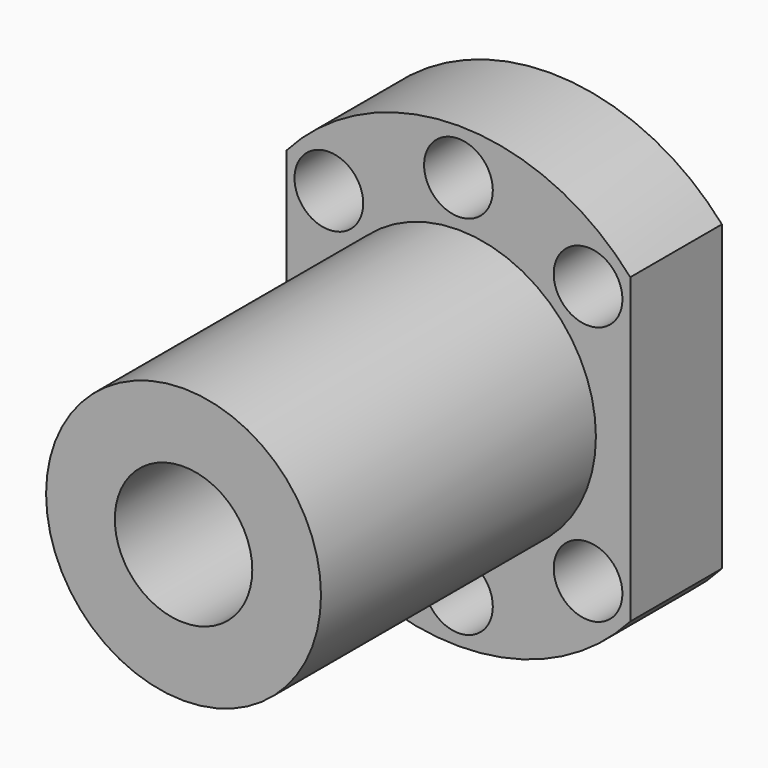
from build123d import *

# Parameters (mm, degrees)
F0_R     = 20
F1_DEPTH = 10
F2_R     = 12
F3_DEPTH = 30
F4_R     = 6
F5_DEPTH = 40.001
F7_DEPTH = 25
F9_D     = 6


with BuildPart() as f1:
    # F0 (on Front) → F1 (new body)
    with BuildSketch(Plane.XZ):
        Circle(F0_R)
    extrude(amount=F1_DEPTH)

    # F2 (on face) → F3 (join)
    with BuildSketch(Plane.XZ.offset(10)):
        Circle(F2_R)
    extrude(amount=F3_DEPTH)

    # F4 (on face) → F5 (cut, through all)
    with BuildSketch(Plane.XZ.offset(40)):
        Circle(F4_R)
    extrude(amount=-F5_DEPTH, mode=Mode.SUBTRACT)

    # F6 (on face) → F7 (cut)
    with BuildSketch(Plane(origin=(0, 0, 0), x_dir=(-1, 0, 0), z_dir=(0, 1, 0))):
        with BuildLine():
            Line((-15, -13.228757), (-15, 0))
            Line((-15, 0), (-15, 13.228757))
            ThreePointArc((-15, 13.228757), (-20, 0), (-15, -13.228757))
        make_face()
        with BuildLine():
            ThreePointArc((20, 0), (18.708287, 7.071068), (15, 13.228757))
            Line((15, 13.228757), (15, 0))
            Line((15, 0), (15, -13.228757))
            ThreePointArc((15, -13.228757), (18.708287, -7.071068), (20, 0))
        make_face()
    extrude(amount=-F7_DEPTH, mode=Mode.SUBTRACT)

    # F9 (through all)
    with Locations(Plane(origin=(0, 0, 0), x_dir=(-1, 0, 0), z_dir=(0, 1, 0))):
        with Locations((-11.313708, 11.313708), (0, 16), (11.313708, 11.313708), (-11.313708, -11.313708), (0, -16), (11.313708, -11.313708)):
            Hole(F9_D / 2)


solid = f1.part
